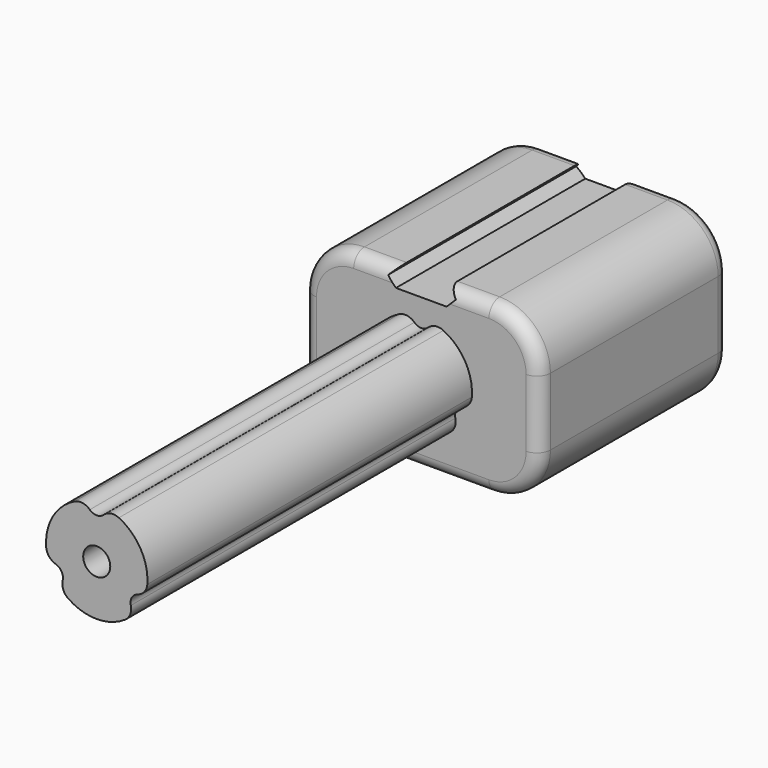
from build123d import *

# Parameters (mm, degrees)
F0_R     = 19.05
F1_DEPTH = 152.4
F2_W     = 88.9
F2_H     = 63.5
F3_DEPTH = 88.9
F4_R     = 19.05
F5_R     = 5.08
F6_DEPTH = 152.4
F8_DEPTH = 241.301
F9_R     = 5.08
F10_R    = 5.08


with BuildPart() as f1:
    # F0 (on Front) → F1 (new body)
    with BuildSketch(Plane.XZ):
        Circle(F0_R)
    extrude(amount=F1_DEPTH)

    # F2 (on face) → F3 (join)
    with BuildSketch(Plane(origin=(0, 0, 0), x_dir=(-1, 0, 0), z_dir=(0, 1, 0))):
        Rectangle(F2_W, F2_H)
    extrude(amount=F3_DEPTH)

    # F4
    f4_edges = [f1.edges().sort_by_distance(p)[0] for p in [
        (44.45, 44.45, 31.75),
        (-44.45, 44.45, 31.75),
        (-44.45, 44.45, -31.75),
        (44.45, 44.45, -31.75),
    ]]
    fillet(f4_edges, radius=F4_R)

    # F5 (on face) → F6 (cut, through all)
    with BuildSketch(Plane.XZ.offset(152.4)):
        Circle(F5_R)
        with BuildLine():
            ThreePointArc((3.7909021354, 18.669), (0, 19.05), (-3.7909021354, 18.669))
            ThreePointArc((-3.7909021354, 18.669), (0, 15.24), (3.7909021354, 18.669))
        make_face()
        with BuildLine():
            ThreePointArc((-18.0632793309, -6.0514824475), (-16.4977839421, -9.525), (-14.2723771956, -12.6175175525))
            ThreePointArc((-14.2723771956, -12.6175175525), (-13.1982271537, -7.62), (-18.0632793309, -6.0514824475))
        make_face()
        with BuildLine():
            ThreePointArc((14.2723771956, -12.6175175525), (16.4977839421, -9.525), (18.0632793309, -6.0514824475))
            ThreePointArc((18.0632793309, -6.0514824475), (13.1982271537, -7.62), (14.2723771956, -12.6175175525))
        make_face()
    extrude(amount=-F6_DEPTH, mode=Mode.SUBTRACT)

    # F7 (on face) → F8 (cut, through all)
    with BuildSketch(Plane(origin=(0, 88.9, 0), x_dir=(-1, 0, 0), z_dir=(0, 1, 0))):
        Polygon((9.525, 31.75), (0, 31.75), (-9.525, 31.75), (-12.7, 28.575), (-9.525, 25.4), (0, 25.4), (9.525, 25.4), (12.7, 28.575), align=None)
    extrude(amount=-F8_DEPTH, mode=Mode.SUBTRACT)

    # F9
    f9_edges = [f1.edges().sort_by_distance(p)[0] for p in [
        (3.790902, -76.2, 18.669),
        (-3.790902, -76.2, 18.669),
        (-14.272377, -76.2, -12.617518),
        (-18.063279, -76.2, -6.051482),
        (18.063279, -76.2, -6.051482),
        (14.272377, -76.2, -12.617518),
    ]]
    fillet(f9_edges, radius=F9_R)

    # F10
    f10_edges = [f1.edges().sort_by_distance(p)[0] for p in [
        (44.45, 0, 0),
        (44.45, 88.9, 0),
    ]]
    fillet(f10_edges, radius=F10_R)


solid = f1.part
